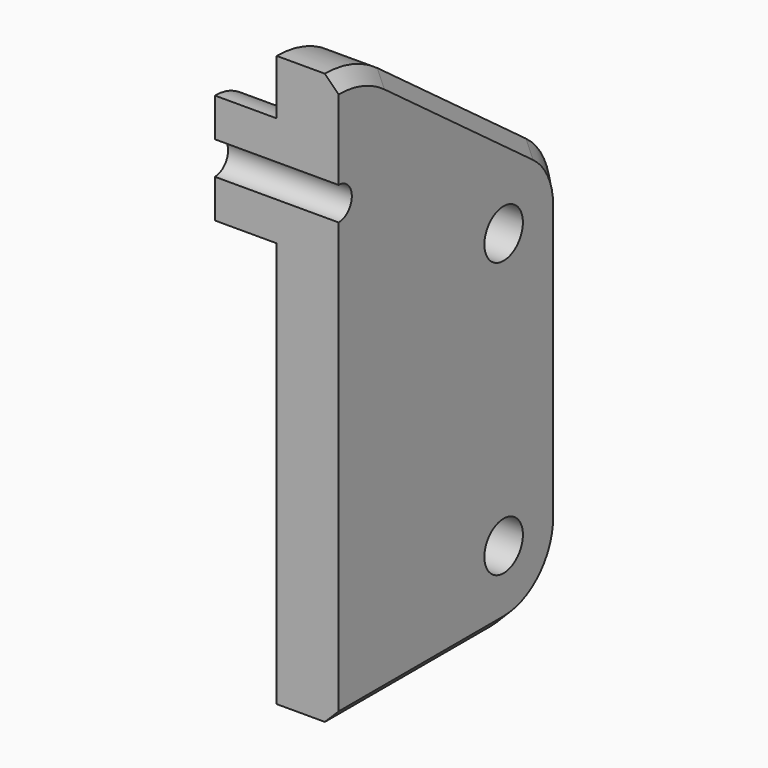
from build123d import *

# Parameters (mm, degrees)
SKETCH037_R     = 1.75
PAD011_DEPTH    = 4.5
PAD012_DEPTH    = 4.5
POCKET012_DEPTH = 9
CHAMFER006_SIZE = 1


with BuildPart() as body017:
    # Sketch037 → Pad011 (new body)
    with BuildSketch(Plane.YZ):
        with BuildLine():
            ThreePointArc((4.76184, 4.428443), (2.507235, 5.596958), (0, 6))
            Line((0, -35.5), (0, 6))
            Line((15.000002, -35.5), (0, -35.5))
            ThreePointArc((15.000002, -35.5), (18.889094, -33.88908), (20.5, -29.999981))
            Line((20.5, -10.000019), (20.5, -29.999981))
            ThreePointArc((20.5, -10.000019), (19.912019, -7.525718), (18.273777, -5.580455))
            Line((18.273777, -5.580455), (4.76184, 4.428443))
        make_face()
        with Locations((15, -10)):
            Circle(SKETCH037_R, mode=Mode.SUBTRACT)
        with Locations((15, -30)):
            Circle(SKETCH037_R, mode=Mode.SUBTRACT)
    extrude(amount=-PAD011_DEPTH)

    # Sketch038 (on Pad) → Pad012 (join)
    with BuildSketch(Plane.YZ):
        with BuildLine():
            ThreePointArc((0, -6), (4, -2), (0, 2))
            Line((0, 2), (0, -6))
        make_face()
    extrude(amount=PAD012_DEPTH)

    # Sketch039 (on Face5 of Pad012) → Pocket012 (cut)
    with BuildSketch(Plane(origin=(-4.5, 0, 0), x_dir=(0, 1, 0), z_dir=(-1, 0, 0))):
        with BuildLine():
            ThreePointArc((0, 0.8), (1.2, 2), (0, 3.2))
            Line((0, 3.2), (0, 0.8))
        make_face()
    extrude(amount=-POCKET012_DEPTH, mode=Mode.SUBTRACT)

    # Chamfer006
    chamfer006_edges = [body017.edges().sort_by_distance(p)[0] for p in [
        (-4.5, 7.500001, -35.5),
    ]]
    chamfer(chamfer006_edges, length=CHAMFER006_SIZE)


with BuildPart() as part_mirroring011:
    # Part__Mirroring011: instance of Body017
    add(body017.part.mirror(Plane(origin=(0, 0, 0), x_dir=(0, -1, 0), z_dir=(1, 0, 0))))


solid = part_mirroring011.part
